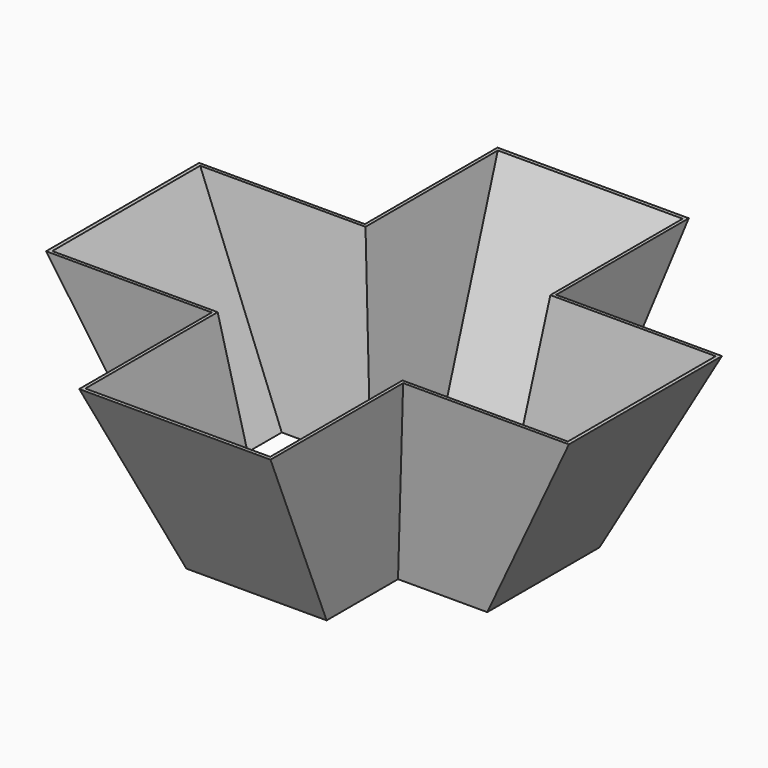
from build123d import *

# Parameters (mm, degrees)
F4_T = -2.5


with BuildPart() as f3:
    # F2 (on offset) → F3 section 0
    with BuildSketch(Plane.XY.offset(150)):
        Polygon((-205, 75), (-205, -75), (-75, -75), (-75, -205), (75, -205), (75, -75), (205, -75), (205, 75), (75, 75), (75, 205), (-75, 205), (-75, 75), align=None)
    # F0 (on Top) → F3 section 1
    with BuildSketch(Plane.XY):
        Polygon((55, 125), (-55, 125), (-55, 55), (-125, 55), (-125, -55), (-55, -55), (-55, -125), (55, -125), (55, -55), (125, -55), (125, 55), (55, 55), align=None)
    loft()

    # F4
    f4_openings = [f3.faces().sort_by_distance(p)[0] for p in [
        (0, 0, 150),
        (0, 0, 0),
    ]]
    offset(amount=F4_T, openings=f4_openings, kind=Kind.INTERSECTION)


solid = f3.part
